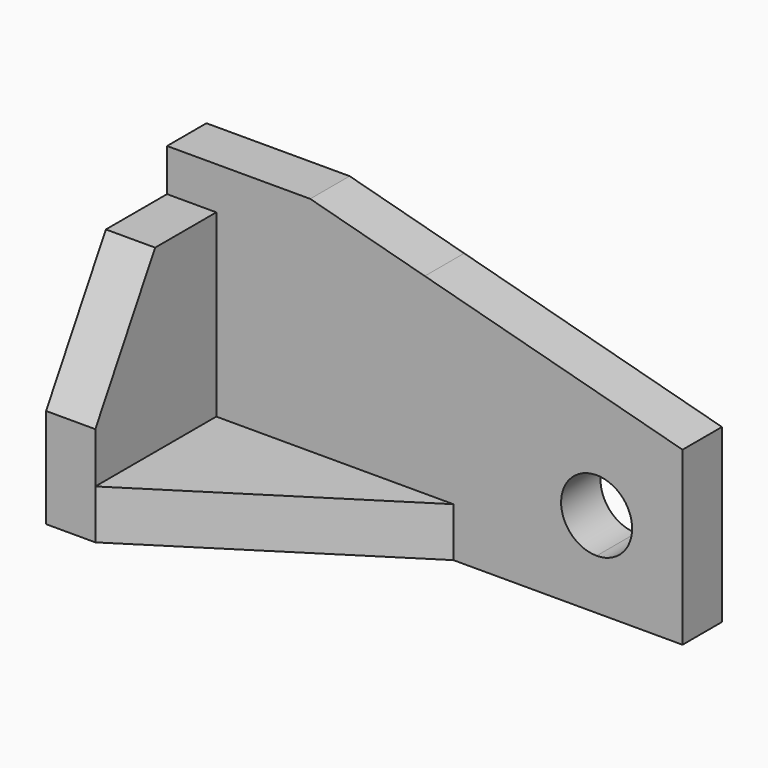
from build123d import *

# Parameters (mm, degrees)
F0_W     = 57.15
F0_H     = 30.099
F1_DEPTH = 10.922
F2_W     = 52.578
F2_H     = 10.922
F3_DEPTH = 33.528
F5_DEPTH = 10.923
F7_DEPTH = 114.301


with BuildPart() as f1:
    # F0 (on Front) → F1 (new body)
    with BuildSketch(Plane.XZ):
        Polygon((-25.4, 30.099), (-57.15, 30.099), (-57.15, 0), (0, 0), (0, 23.2930905122), align=None)
        Polygon((57.15, 7.9797941648), (0, 23.2930905122), (0, 0), (57.15, 0), align=None)
        with BuildLine():
            Line((57.15, 0), (0, 0))
            Line((0, 0), (0, -30.099))
            Line((0, -30.099), (38.1, -30.099))
            Line((38.1, -30.099), (38.1, -18.923))
            ThreePointArc((38.1, -18.923), (32.5322412049, -5.4812412049), (45.974, -11.049))
            Line((45.974, -11.049), (57.15, -11.049))
            Line((57.15, -11.049), (57.15, 0))
        make_face()
        with Locations((-28.575, -15.0495)):
            Rectangle(F0_W, F0_H)
        with BuildLine():
            Line((38.1, -18.923), (38.1, -30.099))
            Line((38.1, -30.099), (57.15, -30.099))
            Line((57.15, -30.099), (57.15, -11.049))
            Line((57.15, -11.049), (45.974, -11.049))
            ThreePointArc((45.974, -11.049), (43.6677587951, -16.6167587951), (38.1, -18.923))
        make_face()
    extrude(amount=F1_DEPTH)

    # F2 (on face) → F3 (join)
    with BuildSketch(Plane.XZ.offset(10.922)):
        Polygon((-57.15, 20.701), (-57.15, -30.099), (-46.228, -30.099), (-46.228, -19.177), (-46.228, 20.701), align=None)
        with Locations((-19.939, -24.638)):
            Rectangle(F2_W, F2_H)
    extrude(amount=F3_DEPTH)

    # F4 (on face) → F5 (cut, through all)
    with BuildSketch(Plane.XY.offset(-19.177)):
        Polygon((6.35, -10.922), (-46.228, -44.45), (6.35, -44.45), align=None)
    extrude(amount=-F5_DEPTH, mode=Mode.SUBTRACT)

    # F6 (on face) → F7 (cut, through all)
    with BuildSketch(Plane(origin=(-57.15, 0, 0), x_dir=(0, -1, 0), z_dir=(-1, 0, 0))):
        Polygon((27.8788925737, 20.701), (44.45, -8.001), (44.45, 20.701), align=None)
    extrude(amount=-F7_DEPTH, mode=Mode.SUBTRACT)


solid = f1.part
